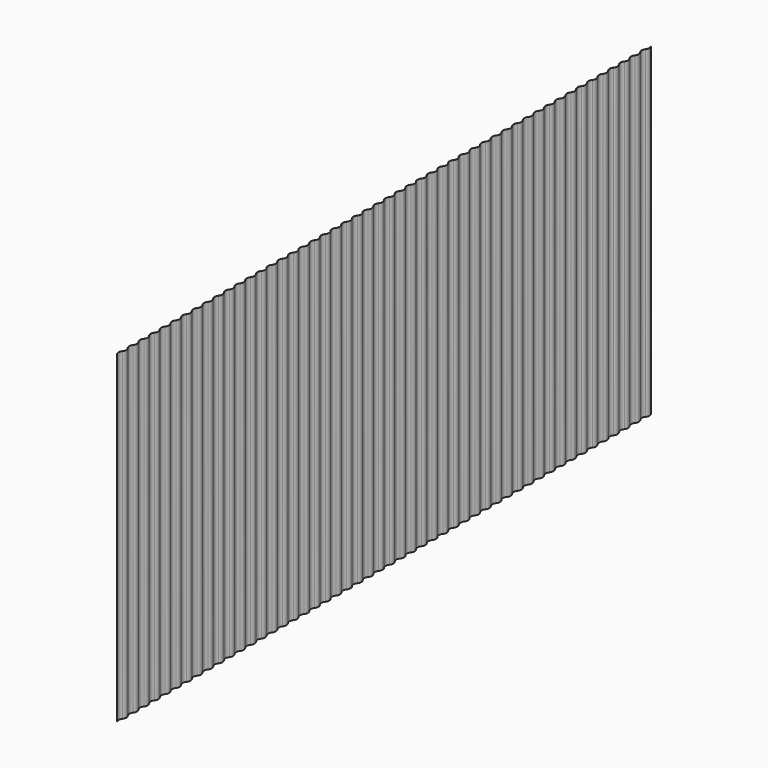
from build123d import *

# Parameters (mm, degrees)
F1_DEPTH = 67.9


with BuildPart() as f1:
    # F0 (on Top) → F1 (new body)
    with BuildSketch(Plane.XY):
        with BuildLine():
            ThreePointArc((0, 2.8), (0.25, 2.1), (0, 1.4))
            ThreePointArc((0, 1.4), (-0.25, 0.7), (0, 0))
            Line((0, 0), (0.03, 0))
            ThreePointArc((0.03, 0), (-0.22, 0.7), (0.03, 1.4))
            ThreePointArc((0.03, 1.4), (0.28, 2.1), (0.03, 2.8))
            ThreePointArc((0.03, 2.8), (-0.22, 3.5), (0.03, 4.2))
            ThreePointArc((0.03, 4.2), (0.28, 4.9), (0.03, 5.6))
            ThreePointArc((0.03, 5.6), (-0.22, 6.3), (0.03, 7))
            ThreePointArc((0.03, 7), (0.28, 7.7), (0.03, 8.4))
            ThreePointArc((0.03, 8.4), (-0.22, 9.1), (0.03, 9.8))
            ThreePointArc((0.03, 9.8), (0.28, 10.5), (0.03, 11.2))
            ThreePointArc((0.03, 11.2), (-0.22, 11.9), (0.03, 12.6))
            ThreePointArc((0.03, 12.6), (0.28, 13.3), (0.03, 14))
            ThreePointArc((0.03, 14), (-0.22, 14.7), (0.03, 15.4))
            ThreePointArc((0.03, 15.4), (0.28, 16.1), (0.03, 16.8))
            ThreePointArc((0.03, 16.8), (-0.22, 17.5), (0.03, 18.2))
            ThreePointArc((0.03, 18.2), (0.28, 18.9), (0.03, 19.6))
            ThreePointArc((0.03, 19.6), (-0.22, 20.3), (0.03, 21))
            ThreePointArc((0.03, 21), (0.28, 21.7), (0.03, 22.4))
            ThreePointArc((0.03, 22.4), (-0.22, 23.1), (0.03, 23.8))
            ThreePointArc((0.03, 23.8), (0.28, 24.5), (0.03, 25.2))
            ThreePointArc((0.03, 25.2), (-0.22, 25.9), (0.03, 26.6))
            ThreePointArc((0.03, 26.6), (0.28, 27.3), (0.03, 28))
            ThreePointArc((0.03, 28), (-0.22, 28.7), (0.03, 29.4))
            ThreePointArc((0.03, 29.4), (0.28, 30.1), (0.03, 30.8))
            ThreePointArc((0.03, 30.8), (-0.22, 31.5), (0.03, 32.2))
            ThreePointArc((0.03, 32.2), (0.28, 32.9), (0.03, 33.6))
            ThreePointArc((0.03, 33.6), (-0.22, 34.3), (0.03, 35))
            ThreePointArc((0.03, 35), (0.28, 35.7), (0.03, 36.4))
            ThreePointArc((0.03, 36.4), (-0.22, 37.1), (0.03, 37.8))
            ThreePointArc((0.03, 37.8), (0.28, 38.5), (0.03, 39.2))
            ThreePointArc((0.03, 39.2), (-0.22, 39.9), (0.03, 40.6))
            ThreePointArc((0.03, 40.6), (0.28, 41.3), (0.03, 42))
            ThreePointArc((0.03, 42), (-0.22, 42.7), (0.03, 43.4))
            ThreePointArc((0.03, 43.4), (0.28, 44.1), (0.03, 44.8))
            ThreePointArc((0.03, 44.8), (-0.22, 45.5), (0.03, 46.2))
            ThreePointArc((0.03, 46.2), (0.28, 46.9), (0.03, 47.6))
            ThreePointArc((0.03, 47.6), (-0.22, 48.3), (0.03, 49))
            ThreePointArc((0.03, 49), (0.28, 49.7), (0.03, 50.4))
            ThreePointArc((0.03, 50.4), (-0.22, 51.1), (0.03, 51.8))
            ThreePointArc((0.03, 51.8), (0.28, 52.5), (0.03, 53.2))
            ThreePointArc((0.03, 53.2), (-0.22, 53.9), (0.03, 54.6))
            ThreePointArc((0.03, 54.6), (0.28, 55.3), (0.03, 56))
            ThreePointArc((0.03, 56), (-0.22, 56.7), (0.03, 57.4))
            ThreePointArc((0.03, 57.4), (0.28, 58.1), (0.03, 58.8))
            ThreePointArc((0.03, 58.8), (-0.22, 59.5), (0.03, 60.2))
            ThreePointArc((0.03, 60.2), (0.28, 60.9), (0.03, 61.6))
            ThreePointArc((0.03, 61.6), (-0.22, 62.3), (0.03, 63))
            ThreePointArc((0.03, 63), (0.28, 63.7), (0.03, 64.4))
            ThreePointArc((0.03, 64.4), (-0.22, 65.1), (0.03, 65.8))
            ThreePointArc((0.03, 65.8), (0.28, 66.5), (0.03, 67.2))
            ThreePointArc((0.03, 67.2), (-0.22, 67.9), (0.03, 68.6))
            ThreePointArc((0.03, 68.6), (0.28, 69.3), (0.03, 70))
            ThreePointArc((0.03, 70), (-0.22, 70.7), (0.03, 71.4))
            ThreePointArc((0.03, 71.4), (0.28, 72.1), (0.03, 72.8))
            ThreePointArc((0.03, 72.8), (-0.22, 73.5), (0.03, 74.2))
            ThreePointArc((0.03, 74.2), (0.28, 74.9), (0.03, 75.6))
            ThreePointArc((0.03, 75.6), (-0.22, 76.3), (0.03, 77))
            ThreePointArc((0.03, 77), (0.28, 77.7), (0.03, 78.4))
            ThreePointArc((0.03, 78.4), (-0.22, 79.1), (0.03, 79.8))
            ThreePointArc((0.03, 79.8), (0.28, 80.5), (0.03, 81.2))
            ThreePointArc((0.03, 81.2), (-0.22, 81.9), (0.03, 82.6))
            ThreePointArc((0.03, 82.6), (0.28, 83.3), (0.03, 84))
            ThreePointArc((0.03, 84), (-0.22, 84.7), (0.03, 85.4))
            ThreePointArc((0.03, 85.4), (0.28, 86.1), (0.03, 86.8))
            ThreePointArc((0.03, 86.8), (-0.22, 87.5), (0.03, 88.2))
            ThreePointArc((0.03, 88.2), (0.28, 88.9), (0.03, 89.6))
            ThreePointArc((0.03, 89.6), (-0.22, 90.3), (0.03, 91))
            ThreePointArc((0.03, 91), (0.28, 91.7), (0.03, 92.4))
            ThreePointArc((0.03, 92.4), (-0.22, 93.1), (0.03, 93.8))
            ThreePointArc((0.03, 93.8), (0.28, 94.5), (0.03, 95.2))
            ThreePointArc((0.03, 95.2), (-0.22, 95.9), (0.03, 96.6))
            ThreePointArc((0.03, 96.6), (0.28, 97.3), (0.03, 98))
            ThreePointArc((0.03, 98), (-0.22, 98.7), (0.03, 99.4))
            ThreePointArc((0.03, 99.4), (0.28, 100.1), (0.03, 100.8))
            ThreePointArc((0.03, 100.8), (-0.22, 101.5), (0.03, 102.2))
            ThreePointArc((0.03, 102.2), (0.28, 102.9), (0.03, 103.6))
            ThreePointArc((0.03, 103.6), (-0.22, 104.3), (0.03, 105))
            ThreePointArc((0.03, 105), (0.28, 105.7), (0.03, 106.4))
            ThreePointArc((0.03, 106.4), (-0.22, 107.1), (0.03, 107.8))
            ThreePointArc((0.03, 107.8), (0.28, 108.5), (0.03, 109.2))
            ThreePointArc((0.03, 109.2), (-0.22, 109.9), (0.03, 110.6))
            ThreePointArc((0.03, 110.6), (0.28, 111.3), (0.03, 112))
            ThreePointArc((0.03, 112), (-0.22, 112.7), (0.03, 113.4))
            ThreePointArc((0.03, 113.4), (0.28, 114.1), (0.03, 114.8))
            ThreePointArc((0.03, 114.8), (-0.22, 115.5), (0.03, 116.2))
            ThreePointArc((0.03, 116.2), (0.28, 116.9), (0.03, 117.6))
            ThreePointArc((0.03, 117.6), (-0.22, 118.3), (0.03, 119))
            ThreePointArc((0.03, 119), (0.28, 119.7), (0.03, 120.4))
            ThreePointArc((0.03, 120.4), (-0.22, 121.1), (0.03, 121.8))
            ThreePointArc((0.03, 121.8), (0.28, 122.5), (0.03, 123.2))
            ThreePointArc((0.03, 123.2), (-0.22, 123.9), (0.03, 124.6))
            ThreePointArc((0.03, 124.6), (0.28, 125.3), (0.03, 126))
            ThreePointArc((0.03, 126), (-0.22, 126.7), (0.03, 127.4))
            ThreePointArc((0.03, 127.4), (0.28, 128.1), (0.03, 128.8))
            ThreePointArc((0.03, 128.8), (-0.22, 129.5), (0.03, 130.2))
            ThreePointArc((0.03, 130.2), (0.28, 130.9), (0.03, 131.6))
            ThreePointArc((0.03, 131.6), (-0.22, 132.3), (0.03, 133))
            ThreePointArc((0.03, 133), (0.28, 133.7), (0.03, 134.4))
            ThreePointArc((0.03, 134.4), (-0.22, 135.1), (0.03, 135.8))
            ThreePointArc((0.03, 135.8), (0.28, 136.5), (0.03, 137.2))
            ThreePointArc((0.03, 137.2), (-0.22, 137.9), (0.03, 138.6))
            ThreePointArc((0.03, 138.6), (0.28, 139.3), (0.03, 140))
            Line((0.03, 140), (0, 140))
            ThreePointArc((0, 140), (0.25, 139.3), (0, 138.6))
            ThreePointArc((0, 138.6), (-0.25, 137.9), (0, 137.2))
            ThreePointArc((0, 137.2), (0.25, 136.5), (0, 135.8))
            ThreePointArc((0, 135.8), (-0.25, 135.1), (0, 134.4))
            ThreePointArc((0, 134.4), (0.25, 133.7), (0, 133))
            ThreePointArc((0, 133), (-0.25, 132.3), (0, 131.6))
            ThreePointArc((0, 131.6), (0.25, 130.9), (0, 130.2))
            ThreePointArc((0, 130.2), (-0.25, 129.5), (0, 128.8))
            ThreePointArc((0, 128.8), (0.25, 128.1), (0, 127.4))
            ThreePointArc((0, 127.4), (-0.25, 126.7), (0, 126))
            ThreePointArc((0, 126), (0.25, 125.3), (0, 124.6))
            ThreePointArc((0, 124.6), (-0.25, 123.9), (0, 123.2))
            ThreePointArc((0, 123.2), (0.25, 122.5), (0, 121.8))
            ThreePointArc((0, 121.8), (-0.25, 121.1), (0, 120.4))
            ThreePointArc((0, 120.4), (0.25, 119.7), (0, 119))
            ThreePointArc((0, 119), (-0.25, 118.3), (0, 117.6))
            ThreePointArc((0, 117.6), (0.25, 116.9), (0, 116.2))
            ThreePointArc((0, 116.2), (-0.25, 115.5), (0, 114.8))
            ThreePointArc((0, 114.8), (0.25, 114.1), (0, 113.4))
            ThreePointArc((0, 113.4), (-0.25, 112.7), (0, 112))
            ThreePointArc((0, 112), (0.25, 111.3), (0, 110.6))
            ThreePointArc((0, 110.6), (-0.25, 109.9), (0, 109.2))
            ThreePointArc((0, 109.2), (0.25, 108.5), (0, 107.8))
            ThreePointArc((0, 107.8), (-0.25, 107.1), (0, 106.4))
            ThreePointArc((0, 106.4), (0.25, 105.7), (0, 105))
            ThreePointArc((0, 105), (-0.25, 104.3), (0, 103.6))
            ThreePointArc((0, 103.6), (0.25, 102.9), (0, 102.2))
            ThreePointArc((0, 102.2), (-0.25, 101.5), (0, 100.8))
            ThreePointArc((0, 100.8), (0.25, 100.1), (0, 99.4))
            ThreePointArc((0, 99.4), (-0.25, 98.7), (0, 98))
            ThreePointArc((0, 98), (0.25, 97.3), (0, 96.6))
            ThreePointArc((0, 96.6), (-0.25, 95.9), (0, 95.2))
            ThreePointArc((0, 95.2), (0.25, 94.5), (0, 93.8))
            ThreePointArc((0, 93.8), (-0.25, 93.1), (0, 92.4))
            ThreePointArc((0, 92.4), (0.25, 91.7), (0, 91))
            ThreePointArc((0, 91), (-0.25, 90.3), (0, 89.6))
            ThreePointArc((0, 89.6), (0.25, 88.9), (0, 88.2))
            ThreePointArc((0, 88.2), (-0.25, 87.5), (0, 86.8))
            ThreePointArc((0, 86.8), (0.25, 86.1), (0, 85.4))
            ThreePointArc((0, 85.4), (-0.25, 84.7), (0, 84))
            ThreePointArc((0, 84), (0.25, 83.3), (0, 82.6))
            ThreePointArc((0, 82.6), (-0.25, 81.9), (0, 81.2))
            ThreePointArc((0, 81.2), (0.25, 80.5), (0, 79.8))
            ThreePointArc((0, 79.8), (-0.25, 79.1), (0, 78.4))
            ThreePointArc((0, 78.4), (0.25, 77.7), (0, 77))
            ThreePointArc((0, 77), (-0.25, 76.3), (0, 75.6))
            ThreePointArc((0, 75.6), (0.25, 74.9), (0, 74.2))
            ThreePointArc((0, 74.2), (-0.25, 73.5), (0, 72.8))
            ThreePointArc((0, 72.8), (0.25, 72.1), (0, 71.4))
            ThreePointArc((0, 71.4), (-0.25, 70.7), (0, 70))
            ThreePointArc((0, 70), (0.25, 69.3), (0, 68.6))
            ThreePointArc((0, 68.6), (-0.25, 67.9), (0, 67.2))
            ThreePointArc((0, 67.2), (0.25, 66.5), (0, 65.8))
            ThreePointArc((0, 65.8), (-0.25, 65.1), (0, 64.4))
            ThreePointArc((0, 64.4), (0.25, 63.7), (0, 63))
            ThreePointArc((0, 63), (-0.25, 62.3), (0, 61.6))
            ThreePointArc((0, 61.6), (0.25, 60.9), (0, 60.2))
            ThreePointArc((0, 60.2), (-0.25, 59.5), (0, 58.8))
            ThreePointArc((0, 58.8), (0.25, 58.1), (0, 57.4))
            ThreePointArc((0, 57.4), (-0.25, 56.7), (0, 56))
            ThreePointArc((0, 56), (0.25, 55.3), (0, 54.6))
            ThreePointArc((0, 54.6), (-0.25, 53.9), (0, 53.2))
            ThreePointArc((0, 53.2), (0.25, 52.5), (0, 51.8))
            ThreePointArc((0, 51.8), (-0.25, 51.1), (0, 50.4))
            ThreePointArc((0, 50.4), (0.25, 49.7), (0, 49))
            ThreePointArc((0, 49), (-0.25, 48.3), (0, 47.6))
            ThreePointArc((0, 47.6), (0.25, 46.9), (0, 46.2))
            ThreePointArc((0, 46.2), (-0.25, 45.5), (0, 44.8))
            ThreePointArc((0, 44.8), (0.25, 44.1), (0, 43.4))
            ThreePointArc((0, 43.4), (-0.25, 42.7), (0, 42))
            ThreePointArc((0, 42), (0.25, 41.3), (0, 40.6))
            ThreePointArc((0, 40.6), (-0.25, 39.9), (0, 39.2))
            ThreePointArc((0, 39.2), (0.25, 38.5), (0, 37.8))
            ThreePointArc((0, 37.8), (-0.25, 37.1), (0, 36.4))
            ThreePointArc((0, 36.4), (0.25, 35.7), (0, 35))
            ThreePointArc((0, 35), (-0.25, 34.3), (0, 33.6))
            ThreePointArc((0, 33.6), (0.25, 32.9), (0, 32.2))
            ThreePointArc((0, 32.2), (-0.25, 31.5), (0, 30.8))
            ThreePointArc((0, 30.8), (0.25, 30.1), (0, 29.4))
            ThreePointArc((0, 29.4), (-0.25, 28.7), (0, 28))
            ThreePointArc((0, 28), (0.25, 27.3), (0, 26.6))
            ThreePointArc((0, 26.6), (-0.25, 25.9), (0, 25.2))
            ThreePointArc((0, 25.2), (0.25, 24.5), (0, 23.8))
            ThreePointArc((0, 23.8), (-0.25, 23.1), (0, 22.4))
            ThreePointArc((0, 22.4), (0.25, 21.7), (0, 21))
            ThreePointArc((0, 21), (-0.25, 20.3), (0, 19.6))
            ThreePointArc((0, 19.6), (0.25, 18.9), (0, 18.2))
            ThreePointArc((0, 18.2), (-0.25, 17.5), (0, 16.8))
            ThreePointArc((0, 16.8), (0.25, 16.1), (0, 15.4))
            ThreePointArc((0, 15.4), (-0.25, 14.7), (0, 14))
            ThreePointArc((0, 14), (0.25, 13.3), (0, 12.6))
            ThreePointArc((0, 12.6), (-0.25, 11.9), (0, 11.2))
            ThreePointArc((0, 11.2), (0.25, 10.5), (0, 9.8))
            ThreePointArc((0, 9.8), (-0.25, 9.1), (0, 8.4))
            ThreePointArc((0, 8.4), (0.25, 7.7), (0, 7))
            ThreePointArc((0, 7), (-0.25, 6.3), (0, 5.6))
            ThreePointArc((0, 5.6), (0.25, 4.9), (0, 4.2))
            ThreePointArc((0, 4.2), (-0.25, 3.5), (0, 2.8))
        make_face()
    extrude(amount=F1_DEPTH)


solid = f1.part
